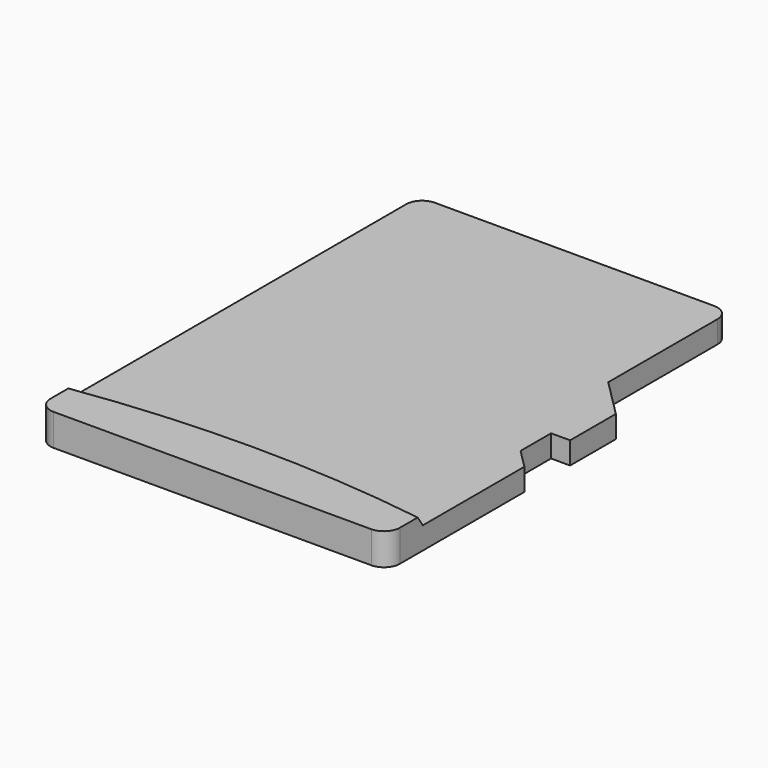
from build123d import *

# Parameters (mm, degrees)
BOX072_W         = 11
BOX072_H         = 15
BOX072_DEPTH     = 0.3
EXTRUDE017_DEPTH = 1


with BuildPart() as cone:
    # Cone → Cone (revolve)
    with BuildSketch(Plane(origin=(0, -36.4, 0.7), x_dir=(1, 0, 0), z_dir=(0, -1, 0))):
        Polygon((0, 0), (38.2, 0), (38, 0.3), (0, 0.3), align=None)
    revolve(axis=Axis((0, -36.4, 0.7), (0, 0, 1)))


with BuildPart() as cut018:
    # Box072 → Box072 (new body)
    with BuildSketch(Plane(origin=(-5.5, 0, 0.7), x_dir=(1, 0, 0), z_dir=(0, 0, 1))):
        with Locations((5.5, 7.5)):
            Rectangle(BOX072_W, BOX072_H)
    extrude(amount=BOX072_DEPTH)

    # Cut018: cut Cone
    add(cone.part, mode=Mode.SUBTRACT)


with BuildPart() as body014:
    # Sketch045 → Extrude017 (new body)
    with BuildSketch(Plane.XY):
        with BuildLine():
            Line((-5.5, 0.5), (-5.5, 14.5))
            ThreePointArc((-5, 15), (-5.353553, 14.853553), (-5.5, 14.5))
            Line((-5, 15), (3.8, 15))
            ThreePointArc((4.3, 14.5), (4.153553, 14.853553), (3.8, 15))
            Line((4.3, 14.5), (4.3, 10.2))
            Line((4.3, 10.2), (5.5, 9))
            Line((5.5, 9), (5.5, 7.2))
            Line((5.5, 7.2), (4.9, 7.2))
            Line((4.9, 7.2), (4.9, 6))
            Line((4.9, 6), (5.5, 5.4))
            Line((5.5, 5.4), (5.5, 0.5))
            ThreePointArc((5, 0), (5.353553, 0.146447), (5.5, 0.5))
            Line((5, 0), (-5, 0))
            ThreePointArc((-5.5, 0.5), (-5.353553, 0.146447), (-5, 0))
        make_face()
    extrude(amount=EXTRUDE017_DEPTH)

    # Cut019: cut Cut018
    add(cut018.part, mode=Mode.SUBTRACT)


solid = body014.part
